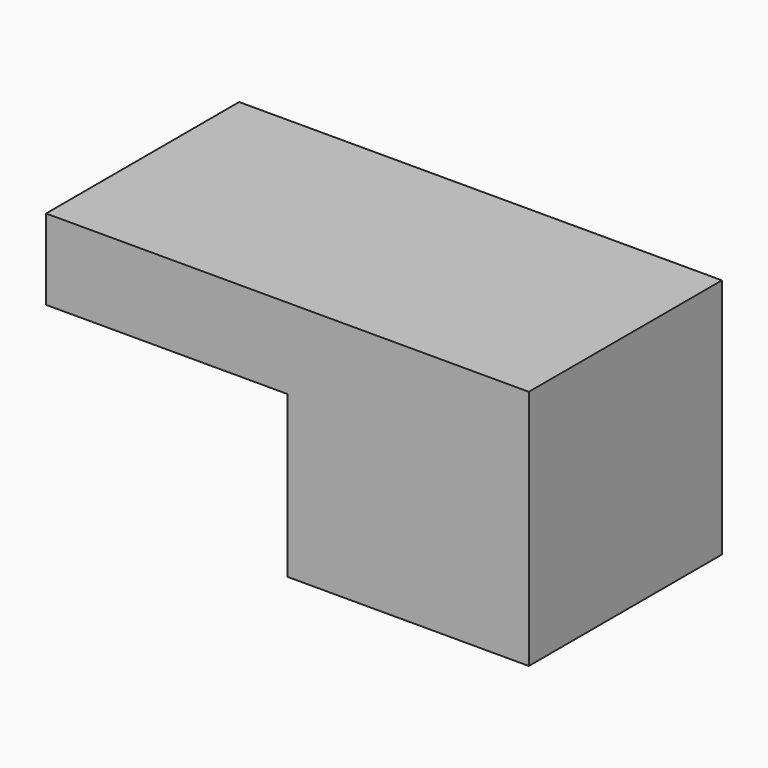
from build123d import *

# Parameters (mm, degrees)
F0_W     = 152.4
F0_H     = 76.2
F1_DEPTH = 25.4
F2_W     = 76.2
F2_H     = 50.8
F3_DEPTH = 76.2


with BuildPart() as f1:
    # F0 (on Top) → F1 (new body)
    with BuildSketch(Plane.XY):
        with Locations((-76.2, 38.1)):
            Rectangle(F0_W, F0_H)
    extrude(amount=F1_DEPTH)

    # F2 (on Right) → F3 (join)
    with BuildSketch(Plane.YZ):
        with Locations((38.1, -25.4)):
            Rectangle(F2_W, F2_H)
    extrude(amount=-F3_DEPTH)


solid = f1.part
